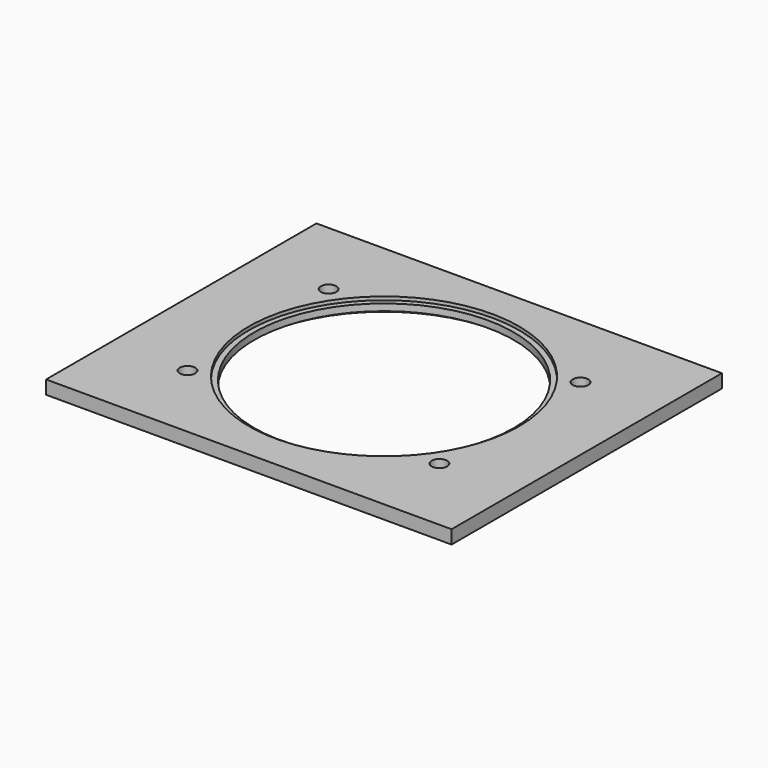
from build123d import *

# Parameters (mm, degrees)
F0_W     = 600
F0_H     = 500
F0_R     = 192
F1_DEPTH = 20
F2_R     = 11.5
F3_DEPTH = 20
F4_R     = 200
F5_DEPTH = 5
F6_R     = 200
F7_DEPTH = 5


with BuildPart() as f1:
    # F0 (on Top) → F1 (new body)
    with BuildSketch(Plane.XY):
        Rectangle(F0_W, F0_H)
        Circle(F0_R, mode=Mode.SUBTRACT)
    extrude(amount=F1_DEPTH)

    # F2 (on face) → F3 (cut, through all)
    with BuildSketch(Plane.XY.offset(20)):
        with Locations((186.35709, 130.488639)):
            Circle(F2_R)
        with Locations((-186.35709, 130.488639)):
            Circle(F2_R)
        with Locations((-186.35709, -130.488639)):
            Circle(F2_R)
        with Locations((186.35709, -130.488639)):
            Circle(F2_R)
    extrude(amount=-F3_DEPTH, mode=Mode.SUBTRACT)

    # F4 (on face) → F5 (cut)
    with BuildSketch(Plane(origin=(0, 0, 0), x_dir=(1, 0, 0), z_dir=(0, 0, -1))):
        Circle(F4_R)
    extrude(amount=-F5_DEPTH, mode=Mode.SUBTRACT)

    # F6 (on face) → F7 (cut)
    with BuildSketch(Plane.XY.offset(20)):
        Circle(F6_R)
    extrude(amount=-F7_DEPTH, mode=Mode.SUBTRACT)


solid = f1.part
